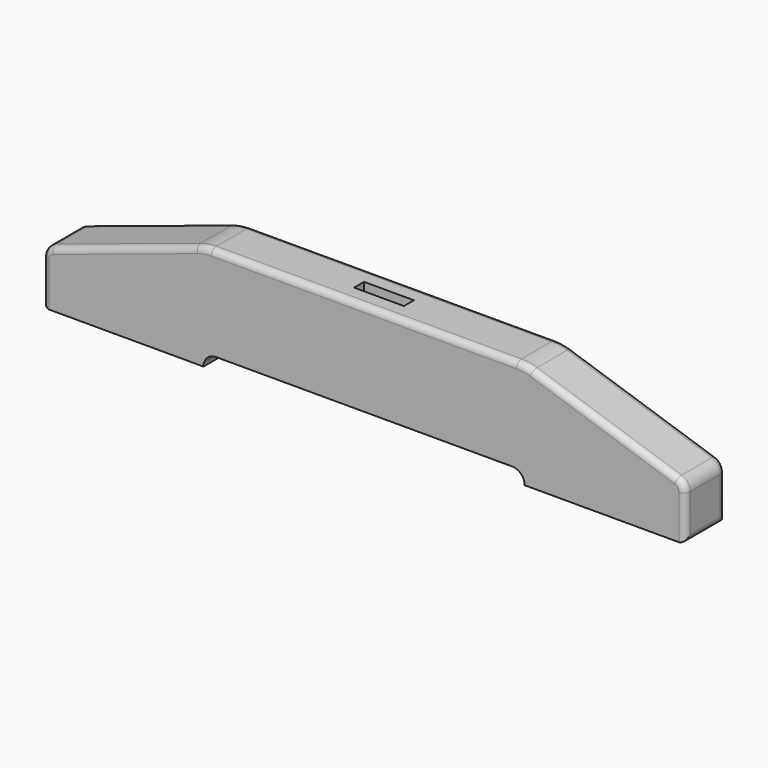
from build123d import *

# Parameters (mm, degrees)
F1_DEPTH = 25.4
F2_R     = 3.175
F3_W     = 25.4
F3_H     = 6.35
F4_DEPTH = 53.976


with BuildPart() as f1:
    # F0 (on Front) → F1 (new body)
    with BuildSketch(Plane.XZ):
        with BuildLine():
            Line((-85.615239, 25.710709), (-159.144036, 1.439067))
            ThreePointArc((-159.144036, 1.439067), (-162.299532, -0.870485), (-163.503562, -4.590901))
            Line((-163.503562, -4.590901), (-163.503562, -26.984162))
            Line((-163.503562, -26.984162), (-81.740962, -26.984162))
            ThreePointArc((-81.740962, -26.984162), (-79.88109, -22.494034), (-75.390962, -20.634162))
            Line((-75.390962, -20.634162), (0, -20.634162))
            Line((0, -20.634162), (75.390962, -20.634162))
            ThreePointArc((75.390962, -20.634162), (79.88109, -22.494034), (81.740962, -26.984162))
            Line((81.740962, -26.984162), (163.503562, -26.984162))
            Line((163.503562, -26.984162), (163.503562, -4.590901))
            ThreePointArc((163.503562, -4.590901), (162.299532, -0.870485), (159.144036, 1.439067))
            Line((159.144036, 1.439067), (85.615239, 25.710709))
            ThreePointArc((85.615239, 25.710709), (81.685416, 26.668764), (77.65334, 26.990838))
            Line((77.65334, 26.990838), (0, 26.990838))
            Line((0, 26.990838), (-77.65334, 26.990838))
            ThreePointArc((-77.65334, 26.990838), (-81.685416, 26.668764), (-85.615239, 25.710709))
        make_face()
    extrude(amount=F1_DEPTH)

    # F2
    f2_edges = [f1.edges().sort_by_distance(p)[0] for p in [
        (-163.503562, -25.4, -15.787532),
        (-162.299532, -25.4, -0.870485),
        (-122.379638, -25.4, 13.574888),
        (122.379638, 0, 13.574888),
        (-163.503562, -12.7, -26.984162),
        (163.503562, -12.7, -26.984162),
    ]]
    fillet(f2_edges, radius=F2_R)

    # F3 (on face) → F4 (cut, through all)
    with BuildSketch(Plane.XY.offset(26.990838)):
        with Locations((0, -12.7)):
            Rectangle(F3_W, F3_H)
    extrude(amount=-F4_DEPTH, mode=Mode.SUBTRACT)


solid = f1.part
